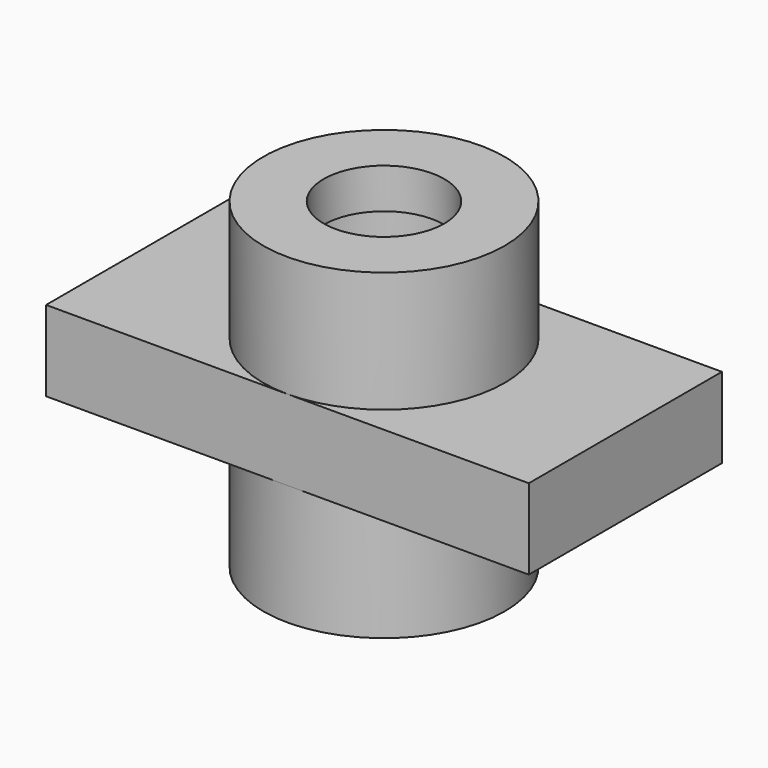
from build123d import *

# Parameters (mm, degrees)
F0_W          = 76.2
F0_H          = 38.1
F1_DEPTH      = 6.35
F2_R          = 19.05
F3_DEPTH      = 25.4
F4_R          = 9.525
F5_DEPTH      = 25.401
F5_DEPTH_BACK = 25.401
F7_START      = 12.7
F6_R          = 12.7
F7_DEPTH      = 6.35


with BuildPart() as f1:
    # F0 (on Top) → F1 (new body, symmetric)
    with BuildSketch(Plane.XY):
        Rectangle(F0_W, F0_H)
    extrude(amount=F1_DEPTH, both=True)

    # F2 (on Top) → F3 (join, symmetric)
    with BuildSketch(Plane.XY):
        Circle(F2_R)
    extrude(amount=F3_DEPTH, both=True)

    # F4 (on Top) → F5 (cut, two sides)
    with BuildSketch(Plane.XY) as f5_sk:
        Circle(F4_R)
    extrude(amount=-F5_DEPTH, mode=Mode.SUBTRACT)
    extrude(f5_sk.sketch, amount=F5_DEPTH_BACK, mode=Mode.SUBTRACT)

    # F6 (on Top) → F7 (cut)
    with BuildSketch(Plane.XY.offset(F7_START)):
        Circle(F6_R)
    extrude(amount=F7_DEPTH, mode=Mode.SUBTRACT)


solid = f1.part
